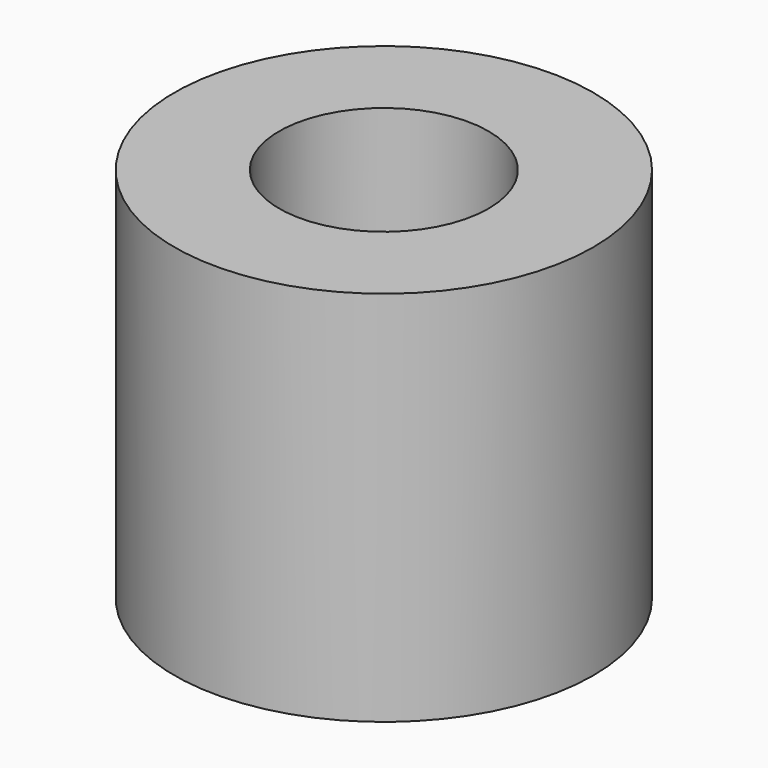
from build123d import *

# Parameters (mm, degrees)
CYLINDER064_R     = 1.25
CYLINDER064_DEPTH = 4.5
CYLINDER063_R     = 2.5
CYLINDER063_DEPTH = 4.5


with BuildPart() as cylinder064:
    # Cylinder064 → Cylinder064 (new body)
    with BuildSketch(Plane.XY):
        Circle(CYLINDER064_R)
    extrude(amount=CYLINDER064_DEPTH)


with BuildPart() as self_tapping_adapter:
    # Cylinder063 → Cylinder063 (new body)
    with BuildSketch(Plane.XY):
        Circle(CYLINDER063_R)
    extrude(amount=CYLINDER063_DEPTH)

    # Cut001038015011012005: cut Cylinder064
    add(cylinder064.part, mode=Mode.SUBTRACT)


solid = self_tapping_adapter.part
